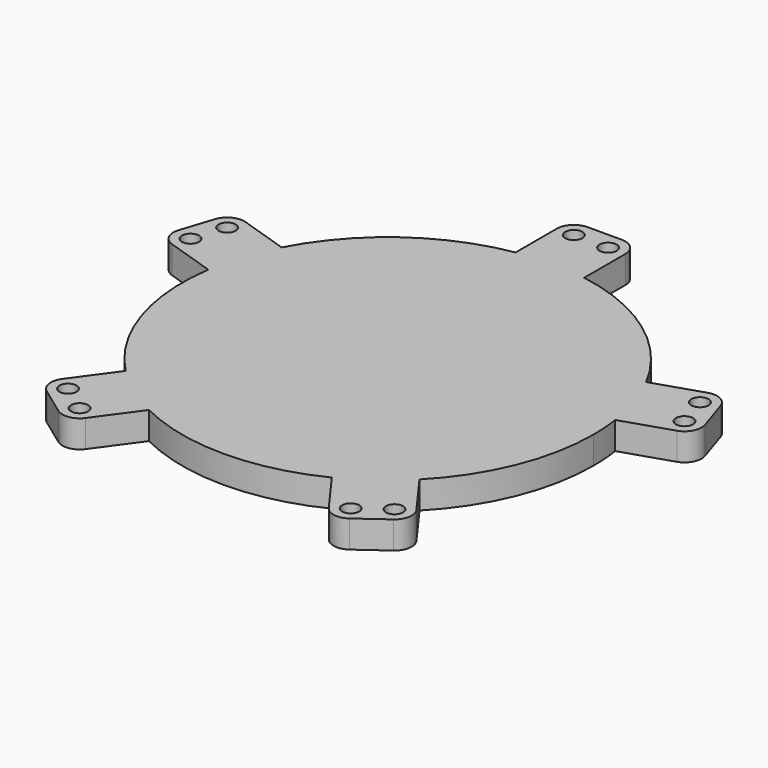
from build123d import *

# Parameters (mm, degrees)
F0_R     = 1.5875
F1_DEPTH = 5.08


with BuildPart() as f1:
    # F0 (on Top) → F1 (new body)
    with BuildSketch(Plane.XY):
        with BuildLine():
            ThreePointArc((27.218649, -26.659991), (35.274924, -14.39756), (38.1, 0))
            ThreePointArc((38.1, 0), (37.997537, 2.792342), (37.690699, 5.569665))
            ThreePointArc((37.690699, 5.569665), (36.235253, 11.773547), (33.766184, 17.648083))
            ThreePointArc((33.766184, 17.648083), (22.394618, 30.823547), (6.35, 37.567107))
            ThreePointArc((6.35, 37.567107), (0, 38.1), (-6.35, 37.567107))
            ThreePointArc((-6.35, 37.567107), (-22.394618, 30.823547), (-33.766184, 17.648083))
            ThreePointArc((-33.766184, 17.648083), (-36.235253, 11.773547), (-37.690699, 5.569665))
            ThreePointArc((-37.690699, 5.569665), (-36.235253, -11.773547), (-27.218649, -26.659991))
            ThreePointArc((-27.218649, -26.659991), (-22.394618, -30.823547), (-16.944133, -34.124864))
            ThreePointArc((-16.944133, -34.124864), (0, -38.1), (16.944133, -34.124864))
            ThreePointArc((16.944133, -34.124864), (22.394618, -30.823547), (27.218649, -26.659991))
        make_face()
        with BuildLine():
            ThreePointArc((33.766184, 17.648083), (36.235253, 11.773547), (37.690699, 5.569665))
            Line((37.690699, 5.569665), (46.749513, 8.513052))
            ThreePointArc((46.749513, 8.513052), (48.59733, 10.091237), (48.787988, 12.513786))
            Line((48.787988, 12.513786), (46.82573, 18.552995))
            ThreePointArc((46.82573, 18.552995), (45.247546, 20.400811), (42.824997, 20.59147))
            Line((42.824997, 20.59147), (33.766184, 17.648083))
        make_face()
        with Locations((45.768384, 11.532657)):
            Circle(F0_R, mode=Mode.SUBTRACT)
        with Locations((43.806126, 17.571866)):
            Circle(F0_R, mode=Mode.SUBTRACT)
        with BuildLine():
            Line((32.817304, -34.365878), (27.218649, -26.659991))
            ThreePointArc((27.218649, -26.659991), (22.394618, -30.823547), (16.944133, -34.124864))
            Line((16.944133, -34.124864), (22.542788, -41.830751))
            ThreePointArc((22.542788, -41.830751), (24.614737, -43.100443), (26.977635, -42.533162))
            Line((26.977635, -42.533162), (32.114893, -38.800725))
            ThreePointArc((32.114893, -38.800725), (33.384585, -36.728776), (32.817304, -34.365878))
        make_face()
        with Locations((25.111417, -39.964533)):
            Circle(F0_R, mode=Mode.SUBTRACT)
        with Locations((30.248675, -36.232096)):
            Circle(F0_R, mode=Mode.SUBTRACT)
        with BuildLine():
            ThreePointArc((-6.35, 37.567107), (0, 38.1), (6.35, 37.567107))
            Line((6.35, 37.567107), (6.35, 47.092107))
            ThreePointArc((6.35, 47.092107), (5.420064, 49.337171), (3.175, 50.267107))
            Line((3.175, 50.267107), (-3.175, 50.267107))
            ThreePointArc((-3.175, 50.267107), (-5.420064, 49.337171), (-6.35, 47.092107))
            Line((-6.35, 47.092107), (-6.35, 37.567107))
        make_face()
        with Locations((-3.175, 47.092107)):
            Circle(F0_R, mode=Mode.SUBTRACT)
        with Locations((3.175, 47.092107)):
            Circle(F0_R, mode=Mode.SUBTRACT)
        with BuildLine():
            Line((-22.542788, -41.830751), (-16.944133, -34.124864))
            ThreePointArc((-16.944133, -34.124864), (-22.394618, -30.823547), (-27.218649, -26.659991))
            Line((-27.218649, -26.659991), (-32.817304, -34.365878))
            ThreePointArc((-32.817304, -34.365878), (-33.384585, -36.728776), (-32.114893, -38.800725))
            Line((-32.114893, -38.800725), (-26.977635, -42.533162))
            ThreePointArc((-26.977635, -42.533162), (-24.614737, -43.100443), (-22.542788, -41.830751))
        make_face()
        with Locations((-25.111417, -39.964533)):
            Circle(F0_R, mode=Mode.SUBTRACT)
        with Locations((-30.248675, -36.232096)):
            Circle(F0_R, mode=Mode.SUBTRACT)
        with BuildLine():
            ThreePointArc((-37.690699, 5.569665), (-36.235253, 11.773547), (-33.766184, 17.648083))
            Line((-33.766184, 17.648083), (-42.824997, 20.59147))
            ThreePointArc((-42.824997, 20.59147), (-45.247546, 20.400811), (-46.82573, 18.552995))
            Line((-46.82573, 18.552995), (-48.787988, 12.513786))
            ThreePointArc((-48.787988, 12.513786), (-48.59733, 10.091237), (-46.749513, 8.513052))
            Line((-46.749513, 8.513052), (-37.690699, 5.569665))
        make_face()
        with Locations((-45.768384, 11.532657)):
            Circle(F0_R, mode=Mode.SUBTRACT)
        with Locations((-43.806126, 17.571866)):
            Circle(F0_R, mode=Mode.SUBTRACT)
    extrude(amount=F1_DEPTH)


solid = f1.part
